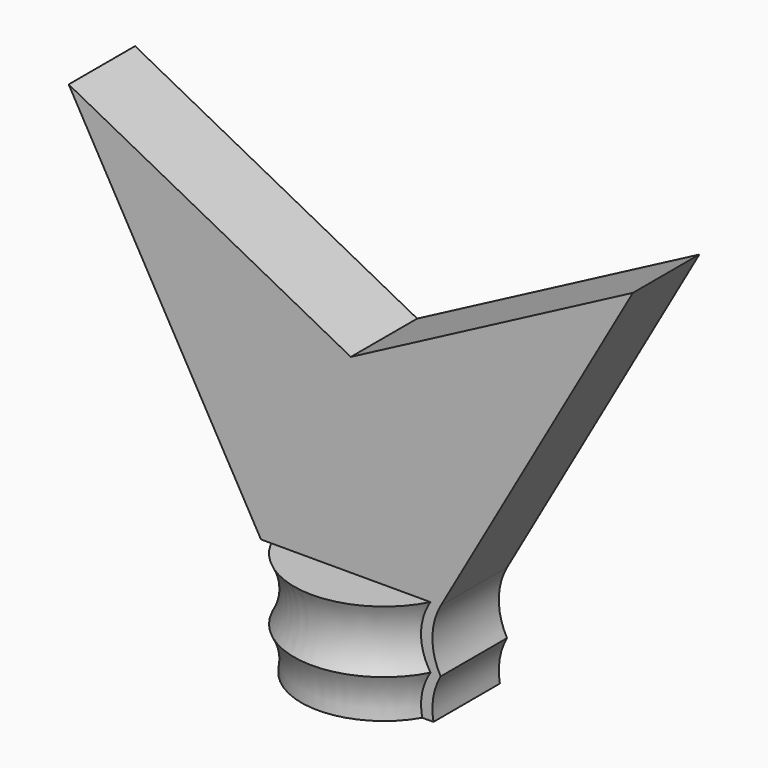
from build123d import *

# Parameters (mm, degrees)
F2_DEPTH = 7.5


with BuildPart() as f1:
    # F0 (on Front) → F1 (revolve)
    with BuildSketch(Plane.XZ):
        with BuildLine():
            Line((16.234176, 0), (0, 0))
            Line((0, 0), (0, -18.89116))
            Line((0, -18.89116), (14.934336, -18.89116))
            ThreePointArc((14.934336, -18.89116), (14.908992, -14.946672), (16.234176, -11.231363))
            ThreePointArc((16.234176, -11.231363), (14.748893, -5.615682), (16.234176, 0))
        make_face()
    revolve(axis=Axis((0, 0, -9.44558), (0, 0, 1)))

    # F0 (on Front) → F2 (join, symmetric)
    with BuildSketch(Plane.XZ):
        Polygon((-16.234176, 0), (0, 0), (16.234176, 0), (50.981011, 61.091773), (0, 34.319621), (-50.981011, 61.091773), align=None)
        with BuildLine():
            Line((16.234176, 0), (0, 0))
            Line((0, 0), (0, -18.89116))
            Line((0, -18.89116), (14.934336, -18.89116))
            ThreePointArc((14.934336, -18.89116), (14.908992, -14.946672), (16.234176, -11.231363))
            ThreePointArc((16.234176, -11.231363), (14.748893, -5.615682), (16.234176, 0))
        make_face()
    extrude(amount=F2_DEPTH, both=True)


solid = f1.part
